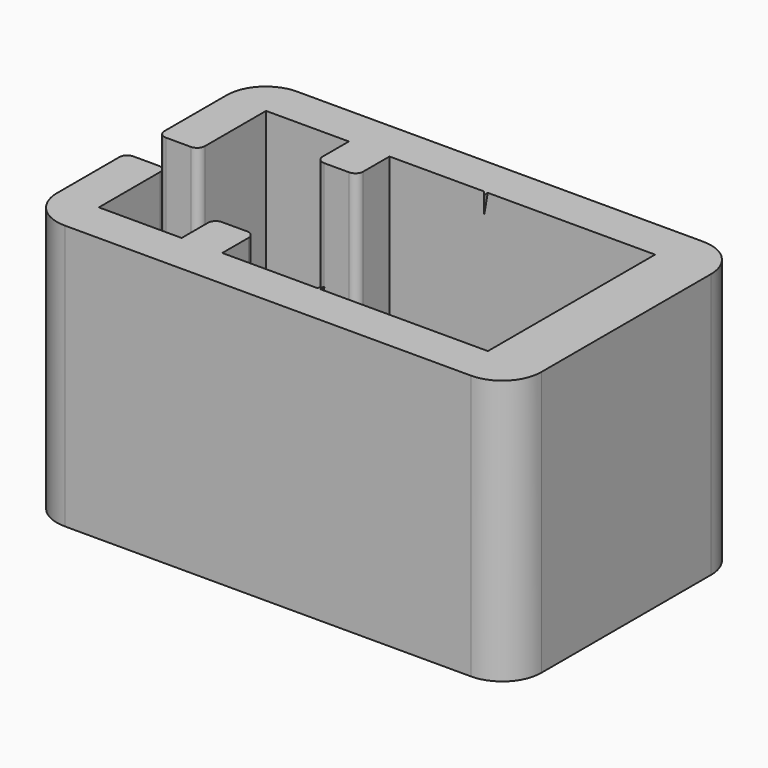
from build123d import *

# Parameters (mm, degrees)
F1_DEPTH = 33.9
F2_R     = 1
F4_W     = 15.65184
F4_H     = 26.75
F5_DEPTH = 33.1


with BuildPart() as f1:
    # F0 (on Top) → F1 (new body)
    with BuildSketch(Plane.XY):
        with BuildLine():
            Line((7.841366, 7.324094), (22.777264, 7.324094))
            Line((22.777264, 7.324094), (22.777264, -19.425906))
            Line((22.777264, -19.425906), (7.841366, -19.425906))
            ThreePointArc((7.841366, -19.425906), (4.377264, -17.425906), (0.913162, -19.425906))
            Line((0.913162, -19.425906), (-11.222736, -19.425906))
            Line((-11.222736, -19.425906), (-11.222736, -14.225906))
            Line((-11.222736, -14.225906), (-16.422736, -14.225906))
            Line((-16.422736, -14.225906), (-16.422736, -19.425906))
            Line((-16.422736, -19.425906), (-27.022736, -19.425906))
            Line((-27.022736, -19.425906), (-27.022736, -8.650906))
            Line((-27.022736, -8.650906), (-32.222736, -8.650906))
            Line((-32.222736, -8.650906), (-32.222736, -19.625906))
            ThreePointArc((-32.222736, -19.625906), (-30.75827, -23.16144), (-27.222736, -24.625906))
            Line((-27.222736, -24.625906), (24.777264, -24.625906))
            ThreePointArc((24.777264, -24.625906), (28.312798, -23.16144), (29.777264, -19.625906))
            Line((29.777264, -19.625906), (29.777264, 7.524094))
            ThreePointArc((29.777264, 7.524094), (28.312798, 11.059628), (24.777264, 12.524094))
            Line((24.777264, 12.524094), (-27.222736, 12.524094))
            ThreePointArc((-27.222736, 12.524094), (-30.75827, 11.059628), (-32.222736, 7.524094))
            Line((-32.222736, 7.524094), (-32.222736, -3.450906))
            Line((-32.222736, -3.450906), (-27.022736, -3.450906))
            Line((-27.022736, -3.450906), (-27.022736, 7.324094))
            Line((-27.022736, 7.324094), (-16.422736, 7.324094))
            Line((-16.422736, 7.324094), (-16.422736, 2.124094))
            Line((-16.422736, 2.124094), (-11.222736, 2.124094))
            Line((-11.222736, 2.124094), (-11.222736, 7.324094))
            Line((-11.222736, 7.324094), (0.913162, 7.324094))
            ThreePointArc((0.913162, 7.324094), (4.377264, 5.324094), (7.841366, 7.324094))
        make_face()
    extrude(amount=F1_DEPTH)

    # F2
    f2_edges = [f1.edges().sort_by_distance(p)[0] for p in [
        (-16.422736, -14.225906, 16.95),
        (-11.222736, -14.225906, 16.95),
        (-11.222736, 2.124094, 16.95),
        (-16.422736, 2.124094, 16.95),
        (-27.022736, -8.650906, 16.95),
        (-32.222736, -8.650906, 16.95),
        (-27.022736, -3.450906, 16.95),
        (-32.222736, -3.450906, 16.95),
    ]]
    fillet(f2_edges, radius=F2_R)

    # F4 (on face) → F5 (cut)
    with BuildSketch(Plane(origin=(0.897894, 0, 5.092212), x_dir=(0.984808, 0, -0.173648), z_dir=(-0.173648, 0, -0.984808))):
        with Locations((3.283218, 6.050906)):
            Rectangle(F4_W, F4_H)
    extrude(amount=-F5_DEPTH, mode=Mode.SUBTRACT)


solid = f1.part
